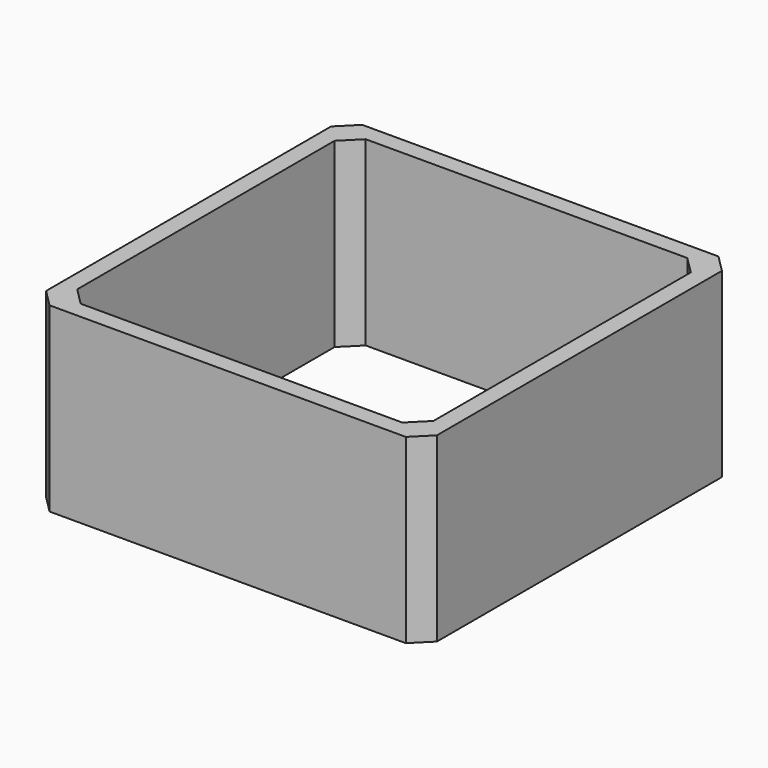
from build123d import *

# Parameters (mm, degrees)
F0_W     = 45.2
F0_H     = 45.2
F0_W_2   = 41.2
F0_H_2   = 41.2
F1_DEPTH = 21
F2_SIZE  = 2


with BuildPart() as f1:
    # F0 (on Top) → F1 (new body)
    with BuildSketch(Plane.XY):
        Rectangle(F0_W, F0_H)
        Rectangle(F0_W_2, F0_H_2, mode=Mode.SUBTRACT)
    extrude(amount=F1_DEPTH)

    # F2
    f2_edges = [f1.edges().sort_by_distance(p)[0] for p in [
        (-22.6, -22.6, 10.5),
        (-20.6, -20.6, 10.5),
        (22.6, -22.6, 10.5),
        (20.6, -20.6, 10.5),
        (20.6, 20.6, 10.5),
        (-20.6, 20.6, 10.5),
        (22.6, 22.6, 10.5),
        (-22.6, 22.6, 10.5),
    ]]
    chamfer(f2_edges, length=F2_SIZE)


solid = f1.part
